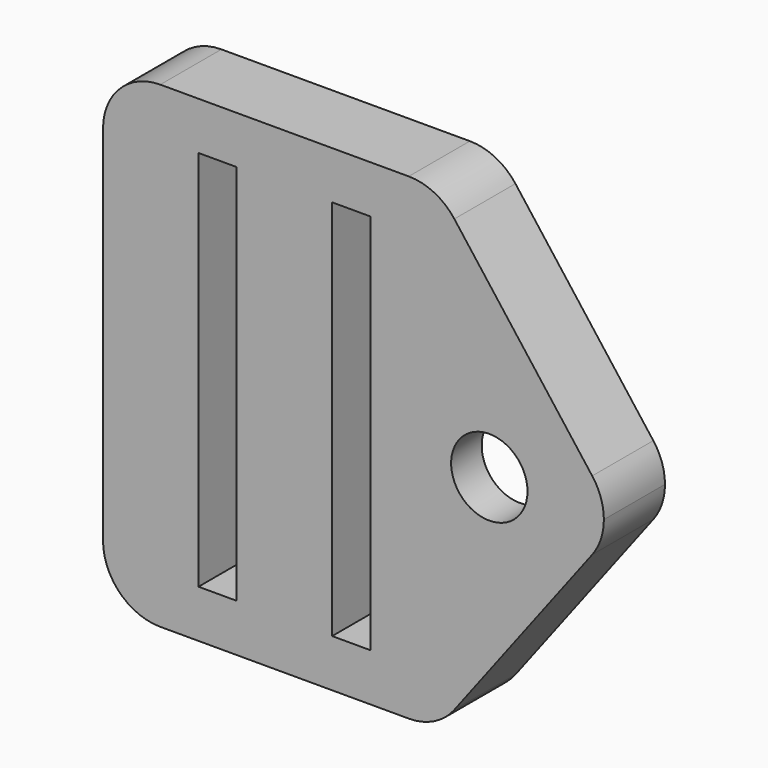
from build123d import *

# Parameters (mm, degrees)
F1_DEPTH = 5.08
F2_R     = 5.334
F2_R_2   = 2.54
F3_DEPTH = 2.54


with BuildPart() as f1:
    # F0 (on Front) → F1 (new body)
    with BuildSketch(Plane.XZ):
        with BuildLine():
            ThreePointArc((-33.39778, 15.875), (-36.091856, 14.759077), (-37.20778, 12.065))
            Line((-37.20778, 12.065), (-37.20778, 0))
            Line((-37.20778, 0), (-30.85778, 0))
            Line((-30.85778, 0), (-30.85778, 12.7))
            Line((-30.85778, 12.7), (-28.31778, 12.7))
            Line((-28.31778, 12.7), (-28.31778, 0))
            Line((-28.31778, 0), (-21.96778, 0))
            Line((-21.96778, 0), (-21.96778, 12.7))
            Line((-21.96778, 12.7), (-19.42778, 12.7))
            Line((-19.42778, 12.7), (-19.42778, 0))
            Line((-19.42778, 0), (-14.053237, 0))
            ThreePointArc((-14.053237, 0), (-11.513237, 2.54), (-8.973237, 0))
            Line((-8.973237, 0), (-3.893237, 0))
            ThreePointArc((-3.893237, 0), (-4.092609, 1.216333), (-4.669859, 2.305367))
            Line((-4.669859, 2.305367), (-13.839259, 14.370367))
            ThreePointArc((-13.839259, 14.370367), (-15.179614, 15.478177), (-16.872637, 15.875))
            Line((-16.872637, 15.875), (-33.39778, 15.875))
        make_face()
        with BuildLine():
            Line((-30.85778, 0), (-37.20778, 0))
            Line((-37.20778, 0), (-37.20778, -12.065))
            ThreePointArc((-37.20778, -12.065), (-36.091856, -14.759077), (-33.39778, -15.875))
            Line((-33.39778, -15.875), (-16.872637, -15.875))
            ThreePointArc((-16.872637, -15.875), (-15.179614, -15.478177), (-13.839259, -14.370367))
            Line((-13.839259, -14.370367), (-4.669859, -2.305367))
            ThreePointArc((-4.669859, -2.305367), (-4.092609, -1.216333), (-3.893237, 0))
            Line((-3.893237, 0), (-8.973237, 0))
            ThreePointArc((-8.973237, 0), (-11.513237, -2.54), (-14.053237, 0))
            Line((-14.053237, 0), (-19.42778, 0))
            Line((-19.42778, 0), (-19.42778, -12.7))
            Line((-19.42778, -12.7), (-21.96778, -12.7))
            Line((-21.96778, -12.7), (-21.96778, 0))
            Line((-21.96778, 0), (-28.31778, 0))
            Line((-28.31778, 0), (-28.31778, -12.7))
            Line((-28.31778, -12.7), (-30.85778, -12.7))
            Line((-30.85778, -12.7), (-30.85778, 0))
        make_face()
    extrude(amount=F1_DEPTH)

    # F2 (on face) → F3 (cut)
    with BuildSketch(Plane(origin=(0, 0, 0), x_dir=(-1, 0, 0), z_dir=(0, 1, 0))):
        with Locations((11.513237, 0)):
            Circle(F2_R)
        with Locations((11.513237, 0)):
            Circle(F2_R_2, mode=Mode.SUBTRACT)
    extrude(amount=-F3_DEPTH, mode=Mode.SUBTRACT)


solid = f1.part
